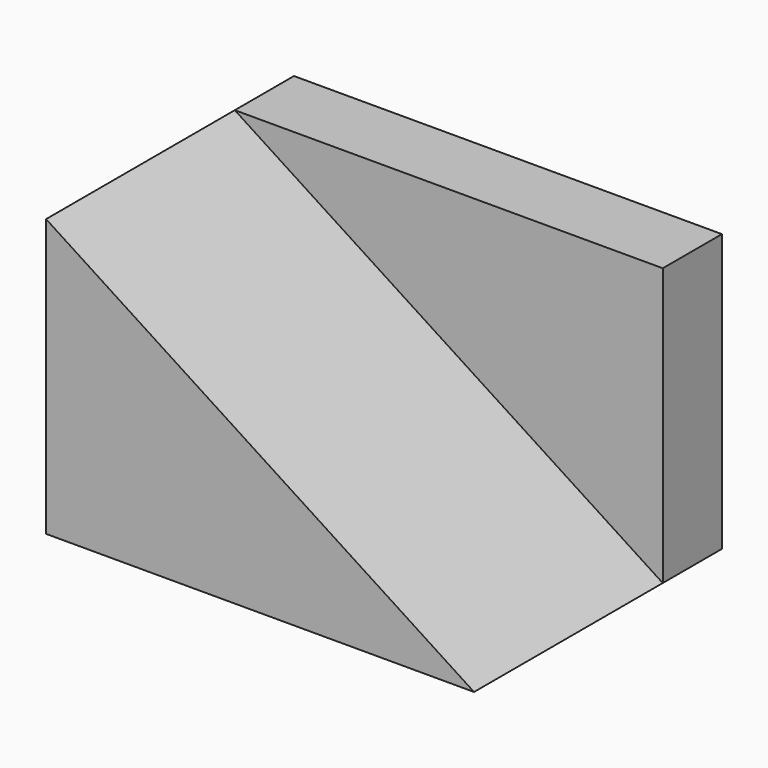
from build123d import *

# Parameters (mm, degrees)
F1_DEPTH = 106.426
F2_DEPTH = 25.4


with BuildPart() as f1:
    # F0 (on Front) → F1 (new body)
    with BuildSketch(Plane.XZ):
        Polygon((75.431123, -39.523013), (-71.575209, 55.669609), (-71.575209, -39.523013), align=None)
    extrude(amount=F1_DEPTH)

    # F0 (on Front) → F2 (join)
    with BuildSketch(Plane.XZ):
        Polygon((75.431123, -39.523013), (-71.575209, 55.669609), (-71.575209, -39.523013), align=None)
        Polygon((75.431123, 55.669609), (-71.575209, 55.669609), (75.431123, -39.523013), align=None)
    extrude(amount=F2_DEPTH)


solid = f1.part
